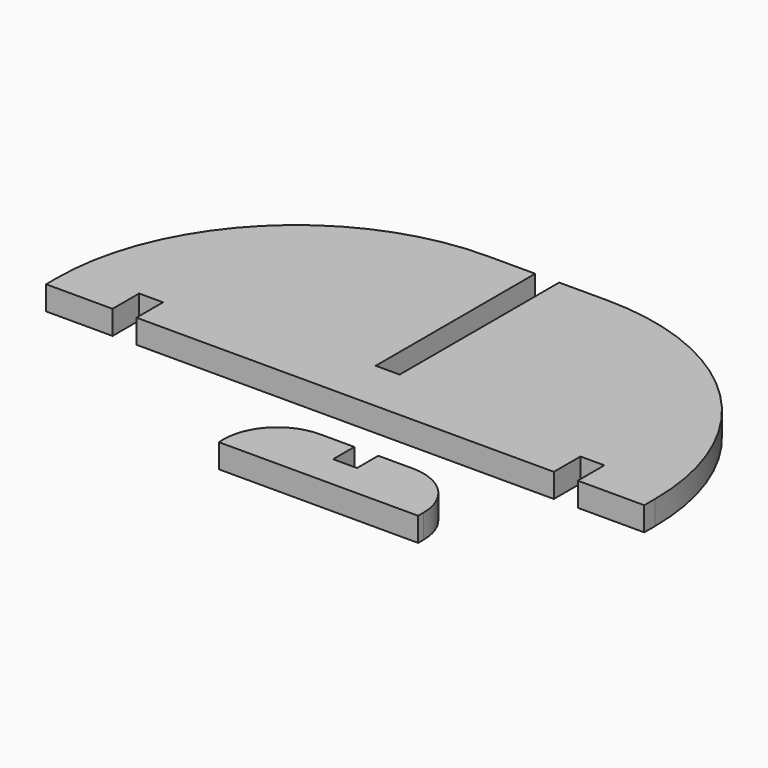
from build123d import *

# Parameters (mm, degrees)
F1_DEPTH = 18
F3_DEPTH = 18


with BuildPart() as f1:
    # F0 (on Top) → F1 (new body)
    with BuildSketch(Plane.XY):
        with BuildLine():
            Line((-225, 10), (-225, 0))
            Line((-225, 0), (-175, 0))
            Line((-175, 0), (-175, 25))
            Line((-175, 25), (-157, 25))
            Line((-157, 25), (-157, 0))
            Line((-157, 0), (157, 0))
            Line((157, 0), (157, 25))
            Line((157, 25), (175, 25))
            Line((175, 25), (175, 0))
            Line((175, 0), (225, 0))
            Line((225, 0), (225, 10))
            ThreePointArc((225, 10), (172.279221, 137.279221), (45, 190))
            Line((45, 190), (9, 190))
            Line((9, 190), (9, 186.363261))
            Line((9, 186.363261), (9, 40))
            Line((9, 40), (-9, 40))
            Line((-9, 40), (-9, 186.363261))
            Line((-9, 186.363261), (-9, 190))
            Line((-9, 190), (-45, 190))
            ThreePointArc((-45, 190), (-172.279221, 137.279221), (-225, 10))
        make_face()
    extrude(amount=F1_DEPTH)


with BuildPart() as f3:
    # F2 (on Top) → F3 (new body)
    with BuildSketch(Plane.XY):
        with BuildLine():
            Line((-20.315581, -93.460963), (129.684419, -93.460963))
            Line((129.684419, -93.460963), (129.684419, -88.460963))
            ThreePointArc((129.684419, -88.460963), (117.968691, -60.176692), (89.684419, -48.460963))
            Line((89.684419, -48.460963), (63.684419, -48.460963))
            Line((63.684419, -48.460963), (63.684419, -68.460963))
            Line((63.684419, -68.460963), (45.684419, -68.460963))
            Line((45.684419, -68.460963), (45.684419, -48.460963))
            Line((45.684419, -48.460963), (19.684419, -48.460963))
            ThreePointArc((19.684419, -48.460963), (-8.599852, -60.176692), (-20.315581, -88.460963))
            Line((-20.315581, -88.460963), (-20.315581, -93.460963))
        make_face()
    extrude(amount=F3_DEPTH)


solid = Compound([f1.part, f3.part])
